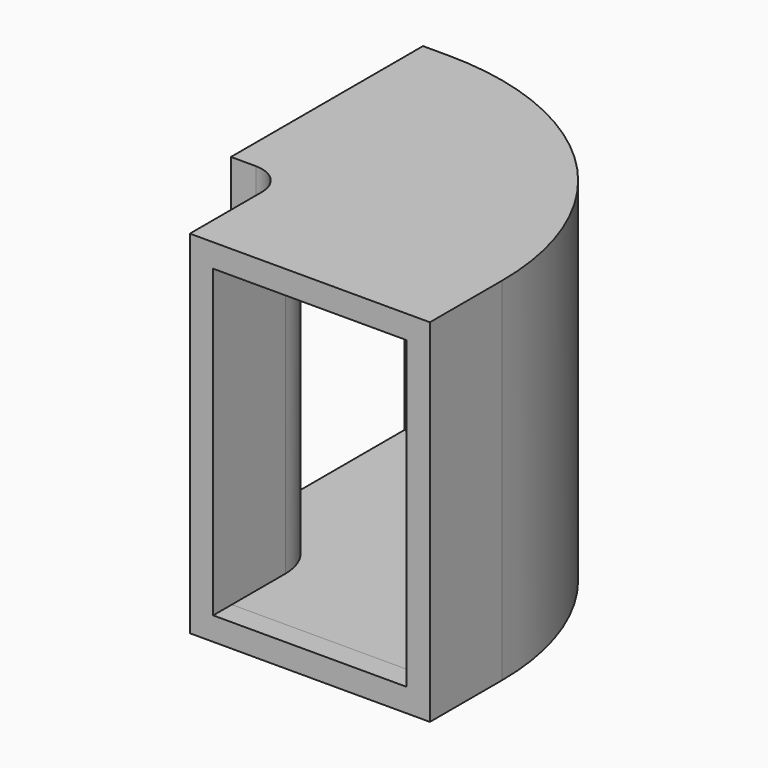
from build123d import *

# Parameters (mm, degrees)
F1_DEPTH = 35.940009
F2_T     = -2.38125
F3_W     = 19.757492
F3_H     = 31.177509
F4_DEPTH = 2.38125
F5_W     = 2.38125
F5_H     = 8.17333
F5_W_2   = 8.17333
F5_H_2   = 2.38125
F6_DEPTH = 1.5875


with BuildPart() as f1:
    # F0 (on Top) → F1 (new body)
    with BuildSketch(Plane.XY):
        with BuildLine():
            ThreePointArc((27.694992, -27.694992), (19.583316, -8.111675), (0, 0))
            Line((0, 0), (-2.54, 0))
            Line((-2.54, 0), (-2.54, -24.519992))
            Line((-2.54, -24.519992), (0, -24.519992))
            ThreePointArc((0, -24.519992), (2.245064, -25.449928), (3.175, -27.694992))
            Line((3.175, -27.694992), (3.175, -36.909985))
            Line((3.175, -36.909985), (27.694992, -36.909985))
            Line((27.694992, -36.909985), (27.694992, -27.694992))
        make_face()
    extrude(amount=F1_DEPTH)

    # F2
    f2_openings = [f1.faces().sort_by_distance(p)[0] for p in [
        (-2.54, -12.259996, 17.970005),
    ]]
    offset(amount=F2_T, openings=f2_openings)

    # F3 (on face) → F4 (cut)
    with BuildSketch(Plane.XZ.offset(36.909985)):
        with Locations((15.434996, 17.970005)):
            Rectangle(F3_W, F3_H)
    extrude(amount=-F4_DEPTH, mode=Mode.SUBTRACT)

    # F5 (on face) → F6 (join)
    with BuildSketch(Plane(origin=(0, 0, 0), x_dir=(1, 0, 0), z_dir=(0, 0, -1))):
        with Locations((1.190625, 12.259996)):
            Rectangle(F5_W, F5_H)
        with Locations((15.434996, 33.17936)):
            Rectangle(F5_W_2, F5_H_2)
    extrude(amount=F6_DEPTH)


solid = f1.part
